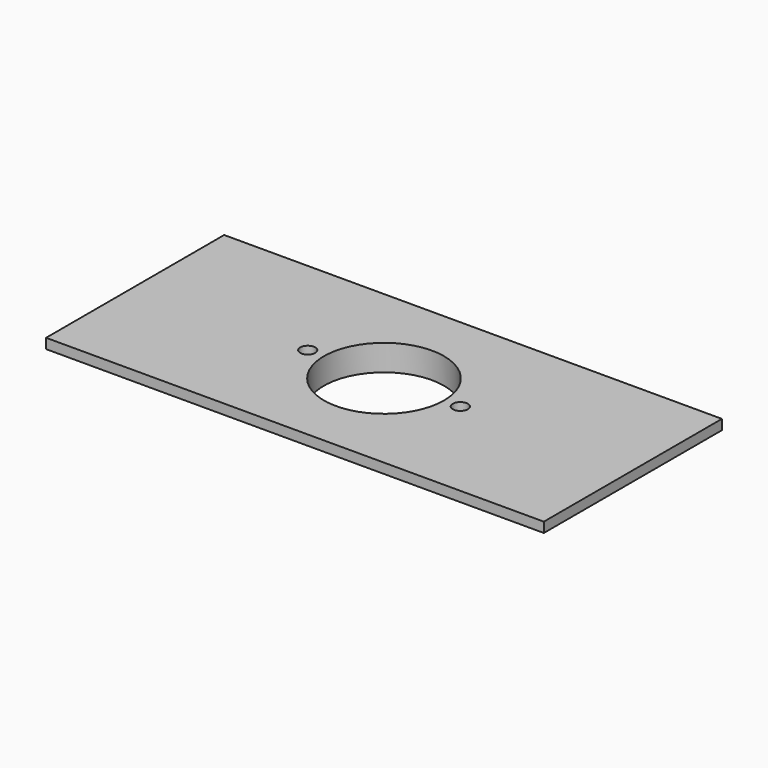
from build123d import *

# Parameters (mm, degrees)
F0_W     = 79
F0_H     = 24.5
F1_DEPTH = 3.2
F2_W     = 99.5
F2_H     = 44.5
F3_DEPTH = 2
F4_R     = 12
F4_R_2   = 1.5
F5_DEPTH = 5.2


with BuildPart() as f1:
    # F0 (on Top) → F1 (new body)
    with BuildSketch(Plane.XY):
        Rectangle(F0_W, F0_H)
    extrude(amount=F1_DEPTH)

    # F2 (on face) → F3 (join)
    with BuildSketch(Plane.XY.offset(3.2)):
        Rectangle(F2_W, F2_H)
    extrude(amount=F3_DEPTH)

    # F4 (on face) → F5 (cut, through all)
    with BuildSketch(Plane.XY.offset(5.2)):
        Circle(F4_R)
        with Locations((-15.25, 0)):
            Circle(F4_R_2)
        with Locations((15.25, 0)):
            Circle(F4_R_2)
    extrude(amount=-F5_DEPTH, mode=Mode.SUBTRACT)


solid = f1.part
